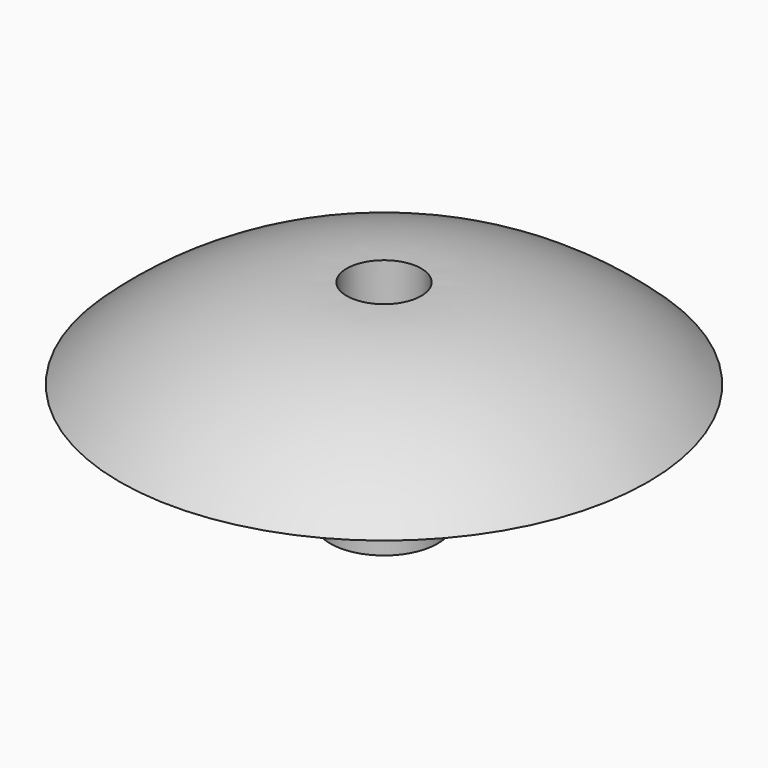
from build123d import *

# Parameters (mm, degrees)
F2_DEPTH = 10
F3_DEPTH = 10
F4_DEPTH = 1


with BuildPart() as f1:
    # F0 (on Front) → F1 (revolve)
    with BuildSketch(Plane.XZ):
        with BuildLine():
            Line((1.55, 2), (1.55, 0))
            Line((1.55, 0), (6.55, 0))
            Line((6.55, 0), (6.55, 14.9455200697))
            Line((6.55, 14.9455200697), (6.55, 15.9468985058))
            ThreePointArc((6.55, 15.9468985058), (19.5204691227, 13.0387576646), (30.7963834074, 6))
            Line((30.7963834074, 6), (32.2785816747, 6))
            ThreePointArc((32.2785816747, 6), (19.4618650437, 14.1407042674), (4.55, 17))
            Line((4.55, 17), (4.55, 16))
            Line((4.55, 16), (4.55, 15))
            Line((4.55, 15), (4.55, 2))
            Line((4.55, 2), (1.55, 2))
        make_face()
    revolve(axis=Axis((0, 0, 13.7464413419), (0, 0, 1)))

    # F2 (add): a face of the model
    f2_faces = [f1.faces().sort_by_distance(p)[0] for p in [
        (-1.7352619767, 0, 0),
    ]]
    extrude(f2_faces, amount=F2_DEPTH)

    # F3 (cut): a face of the model
    f3_faces = [f1.faces().sort_by_distance(p)[0] for p in [
        (-4.4213065658, 0, 2),
    ]]
    extrude(f3_faces, amount=-F3_DEPTH, mode=Mode.SUBTRACT)

    # F4 (cut): a face of the model
    f4_faces = [f1.faces().sort_by_distance(p)[0] for p in [
        (-1.7352619767, 0, -10),
    ]]
    extrude(f4_faces, amount=-F4_DEPTH, mode=Mode.SUBTRACT)


solid = f1.part
